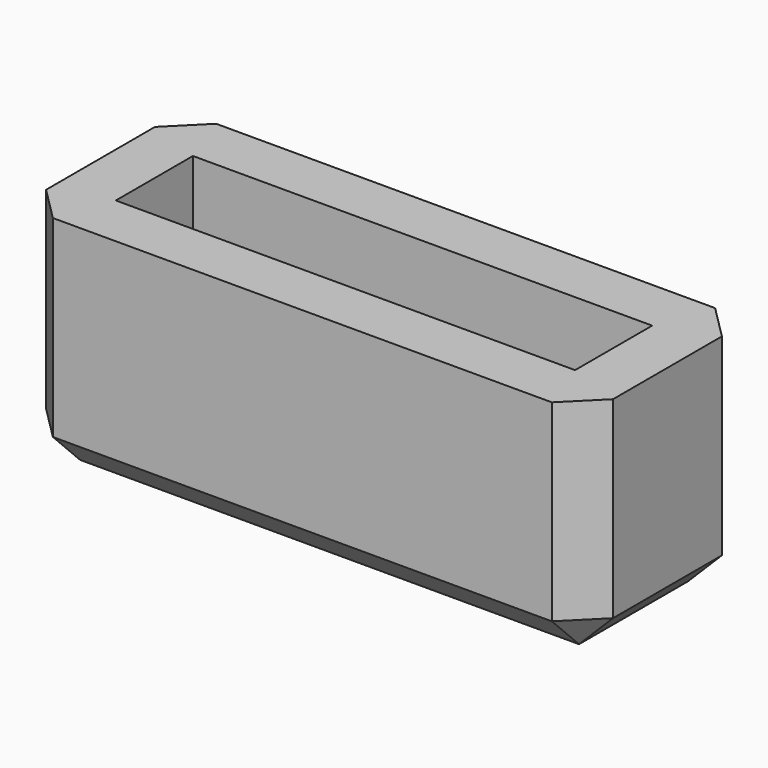
from build123d import *

# Parameters (mm, degrees)
F0_W     = 50
F0_H     = 18
F1_DEPTH = 20
F2_W     = 40.5
F2_H     = 8.5
F3_DEPTH = 15
F4_SIZE  = 3


with BuildPart() as f1:
    # F0 (on Top) → F1 (new body)
    with BuildSketch(Plane.XY):
        Rectangle(F0_W, F0_H)
    extrude(amount=F1_DEPTH)

    # F2 (on face) → F3 (cut, through all)
    with BuildSketch(Plane.XY.offset(20)):
        Rectangle(F2_W, F2_H)
    extrude(amount=-F3_DEPTH, mode=Mode.SUBTRACT)

    # F4
    f4_edges = [f1.edges().sort_by_distance(p)[0] for p in [
        (0, -9, 0),
        (-25, 0, 0),
        (0, 9, 0),
        (25, 0, 0),
        (-25, -9, 10),
        (-25, 9, 10),
        (25, 9, 10),
        (25, -9, 10),
    ]]
    chamfer(f4_edges, length=F4_SIZE)


solid = f1.part
